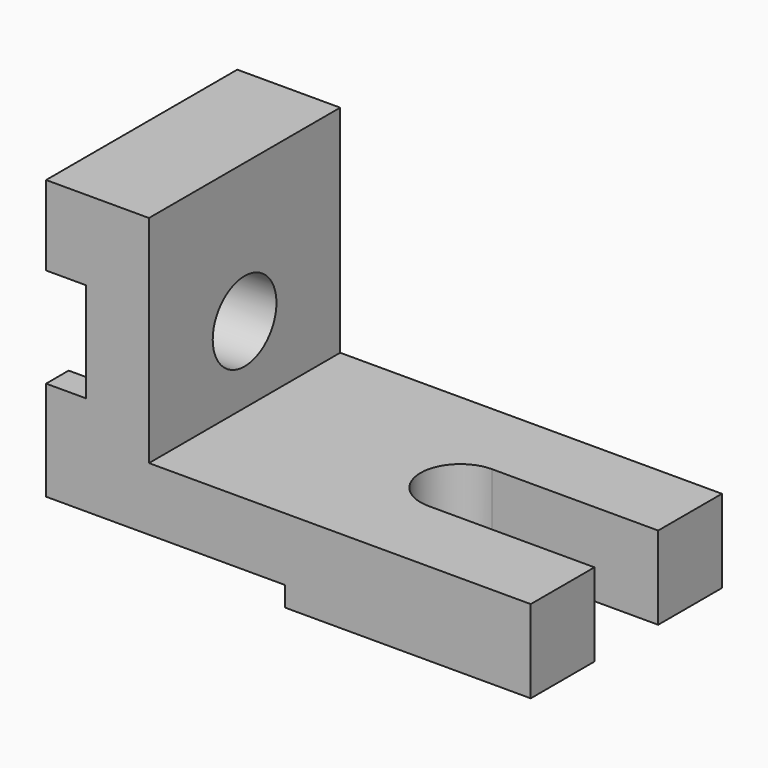
from build123d import *

# Parameters (mm, degrees)
F2_DEPTH  = 72
F3_W      = 72
F3_H      = 22
F4_DEPTH  = 6
F6_DEPTH  = 25.001
F8_DEPTH  = 12
F10_DEPTH = 12
F11_R     = 12
F12_DEPTH = 134.001


with BuildPart() as f2:
    # F0 (on Front) → F2 (new body)
    with BuildSketch(Plane.XZ):
        Polygon((-134, 11), (-146, 11), (-146, -19), (-74, -19), (-74, -25), (0, -25), (0, 0), (-115, 0), (-115, 65), (-146, 65), (-146, 41), (-134, 41), align=None)
    extrude(amount=-F2_DEPTH)

    # F3 (on face) → F4 (join)
    with BuildSketch(Plane(origin=(0, 0, -19), x_dir=(1, 0, 0), z_dir=(0, 0, -1))):
        with Locations((-110, -61)):
            Rectangle(F3_W, F3_H)
    extrude(amount=F4_DEPTH)

    # F5 (on Top) → F6 (cut, through all)
    with BuildSketch(Plane.XY):
        with BuildLine():
            Line((-50, 24), (0, 24))
            Line((0, 24), (0, 48))
            Line((0, 48), (-50, 48))
            ThreePointArc((-50, 48), (-62, 36), (-50, 24))
        make_face()
    extrude(amount=-F6_DEPTH, mode=Mode.SUBTRACT)

    # F7 (on face) → F8 (cut)
    with BuildSketch(Plane(origin=(-146, 0, 0), x_dir=(0, -1, 0), z_dir=(-1, 0, 0))):
        with BuildLine():
            Line((-13.861853, 11), (-58.138147, 11))
            ThreePointArc((-58.138147, 11), (-36, 1.246048), (-13.861853, 11))
        make_face()
    extrude(amount=-F8_DEPTH, mode=Mode.SUBTRACT)

    # F9 (on face) → F10 (cut)
    with BuildSketch(Plane(origin=(-146, 0, 0), x_dir=(0, -1, 0), z_dir=(-1, 0, 0))):
        with BuildLine():
            Line((-60, 41), (-12, 41))
            ThreePointArc((-12, 41), (-36, 53), (-60, 41))
        make_face()
        with BuildLine():
            Line((-6.492059, 17.588768), (-8.615558, 35.251218))
            ThreePointArc((-8.615558, 35.251218), (-10.147489, 38.219976), (-12, 41))
            Line((-12, 41), (-60, 41))
            ThreePointArc((-60, 41), (-48.025215, -4.484436), (-6.492059, 17.588768))
        make_face()
    extrude(amount=-F10_DEPTH, mode=Mode.SUBTRACT)

    # F11 (on face) → F12 (cut, through all)
    with BuildSketch(Plane(origin=(-134, 0, 0), x_dir=(0, -1, 0), z_dir=(-1, 0, 0))):
        with Locations((-36, 23)):
            Circle(F11_R)
    extrude(amount=-F12_DEPTH, mode=Mode.SUBTRACT)


solid = f2.part
